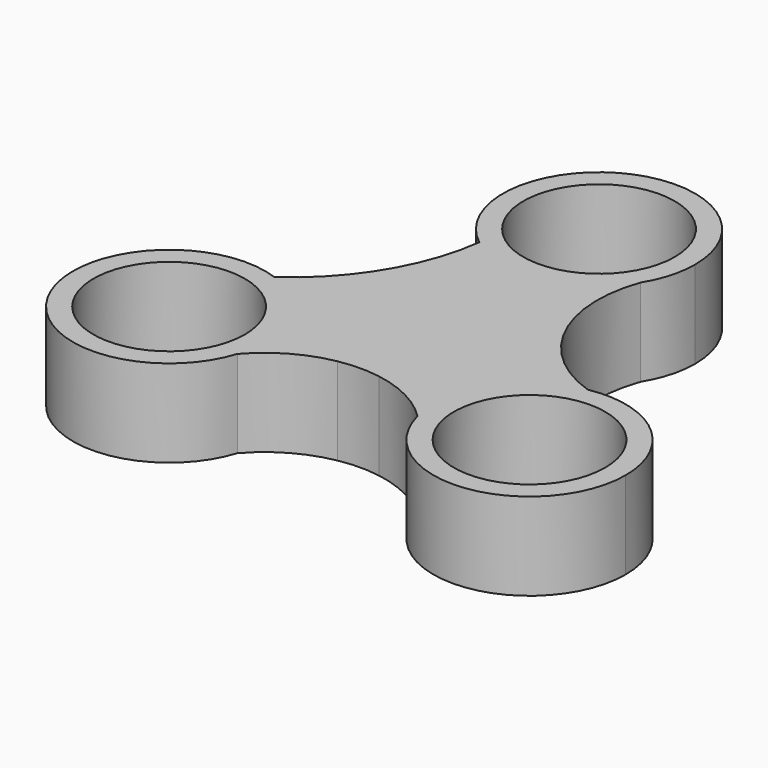
from build123d import *

# Parameters (mm, degrees)
F0_R     = 10.9982
F1_DEPTH = 12.7


with BuildPart() as f1:
    # F0 (on Top) → F1 (new body)
    with BuildSketch(Plane.XY):
        with BuildLine():
            ThreePointArc((-12.2154362486, -15.118168667), (-14.7366474541, -7.1127870308), (-21.3902587453, -1.9969197663))
            ThreePointArc((-21.3902587453, -1.9969197663), (-38.7307753818, -21.2643354424), (-12.8784707078, -19.3708816947))
            ThreePointArc((-12.8784707078, -19.3708816947), (-12.3821900977, -17.2702132059), (-12.2154362486, -15.118168667))
        make_face()
        with Locations((-26.1854362486, -15.118168667)):
            Circle(F0_R, mode=Mode.SUBTRACT)
        with BuildLine():
            ThreePointArc((40.1554362486, -15.118168667), (35.1219871279, -4.3804334131), (23.6487850844, -1.3803995296))
            ThreePointArc((23.6487850844, -1.3803995296), (14.4276151668, -7.5739958554), (12.6403355248, -18.537400508))
            ThreePointArc((12.6403355248, -18.537400508), (27.9082018869, -28.9815368924), (40.1554362486, -15.118168667))
        make_face()
        with Locations((26.1854362486, -15.118168667)):
            Circle(F0_R, mode=Mode.SUBTRACT)
        with BuildLine():
            ThreePointArc((11.8996449026, 22.9179118754), (13.4424502843, 26.4335185958), (13.97, 30.2363373339))
            ThreePointArc((13.97, 30.2363373339), (-6.1371887261, 42.7860709781), (-8.5777186171, 19.2098400059))
            ThreePointArc((-8.5777186171, 19.2098400059), (2.4892263475, 16.4898958965), (11.8996449026, 22.9179118754))
        make_face()
        with Locations((0, 30.2363373339)):
            Circle(F0_R, mode=Mode.SUBTRACT)
        with BuildLine():
            ThreePointArc((13.97, 0), (-8.806533859, 10.8446236168), (-2.8669164481, -13.6726621431))
            ThreePointArc((-2.8669164481, -13.6726621431), (0.1166999795, -13.3890866242), (3.1048060559, -13.6206122974))
            ThreePointArc((3.1048060559, -13.6206122974), (10.9209670039, -8.7116806472), (13.97, 0))
        make_face()
        Circle(F0_R, mode=Mode.SUBTRACT)
        Circle(F0_R)
        with BuildLine():
            ThreePointArc((11.8996449026, 22.9179118754), (2.4892263475, 16.4898958965), (-8.5777186171, 19.2098400059))
            ThreePointArc((-8.5777186171, 19.2098400059), (-12.761693054, 7.2638103135), (-21.3902587453, -1.9969197663))
            ThreePointArc((-21.3902587453, -1.9969197663), (-14.7366474541, -7.1127870308), (-12.2154362486, -15.118168667))
            ThreePointArc((-12.2154362486, -15.118168667), (-12.3821900977, -17.2702132059), (-12.8784707078, -19.3708816947))
            ThreePointArc((-12.8784707078, -19.3708816947), (-8.3568281291, -15.6711659912), (-2.8669164481, -13.6726621431))
            ThreePointArc((-2.8669164481, -13.6726621431), (-8.806533859, 10.8446236168), (13.97, 0))
            ThreePointArc((13.97, 0), (10.9209670039, -8.7116806472), (3.1048060559, -13.6206122974))
            ThreePointArc((3.1048060559, -13.6206122974), (8.260103937, -15.3274316792), (12.6403355248, -18.537400508))
            ThreePointArc((12.6403355248, -18.537400508), (14.4276151668, -7.5739958554), (23.6487850844, -1.3803995296))
            ThreePointArc((23.6487850844, -1.3803995296), (12.637060616, 8.2847503541), (11.8996449026, 22.9179118754))
        make_face()
    extrude(amount=F1_DEPTH)


solid = f1.part
